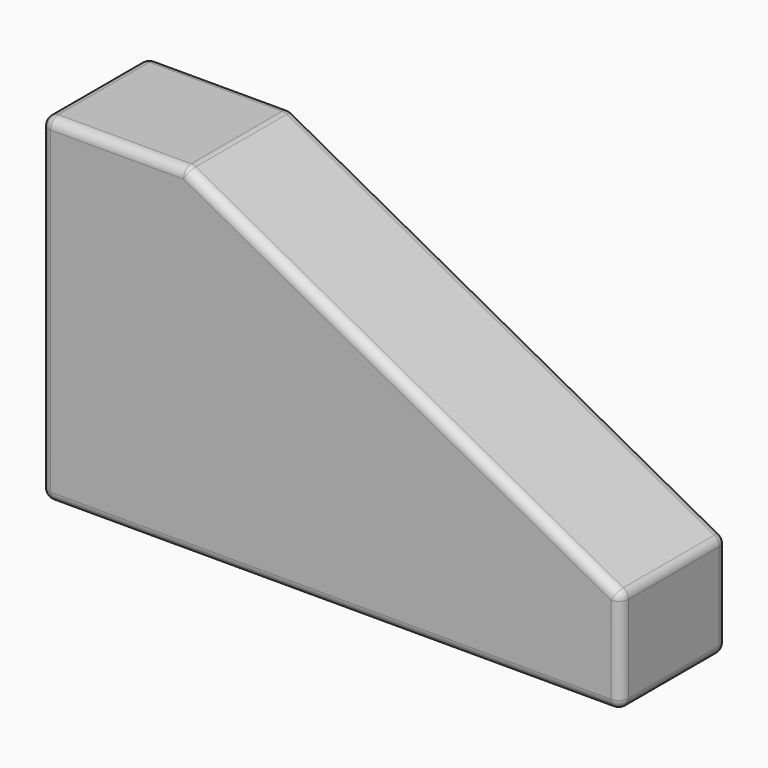
from build123d import *

# Parameters (mm, degrees)
F1_DEPTH = 34.925
F2_R     = 5.08


with BuildPart() as f1:
    # F0 (on Front) → F1 (new body, symmetric)
    with BuildSketch(Plane.XZ):
        Polygon((0, 177.8), (0, 0), (304.8, 0), (304.8, 53.975), (76.2, 177.8), align=None)
    extrude(amount=F1_DEPTH, both=True)

    # F2
    f2_edges = [f1.edges().sort_by_distance(p)[0] for p in [
        (38.1, -34.925, 177.8),
        (0, -34.925, 88.9),
        (152.4, -34.925, 0),
        (304.8, -34.925, 26.9875),
        (190.5, -34.925, 115.8875),
        (38.1, 34.925, 177.8),
        (0, 34.925, 88.9),
        (152.4, 34.925, 0),
        (304.8, 34.925, 26.9875),
        (190.5, 34.925, 115.8875),
        (0, 0, 177.8),
        (76.2, 0, 177.8),
        (304.8, 0, 53.975),
        (0, 0, 0),
        (304.8, 0, 0),
    ]]
    fillet(f2_edges, radius=F2_R)


solid = f1.part
